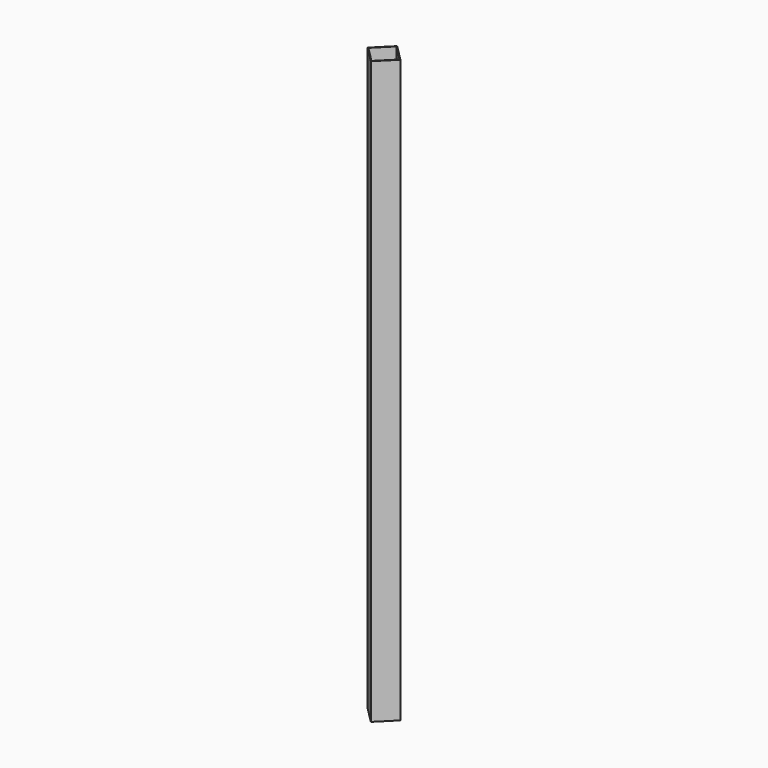
from build123d import *

# Parameters (mm, degrees)
F1_DEPTH = 1250
F2_T     = -1.25
F3_R     = 4
F4_DEPTH = 12.5


with BuildPart() as f1:
    # F0 (on Top) → F1 (new body)
    with BuildSketch(Plane.XY):
        Polygon((35.355339, 0), (0, 35.355339), (-35.355339, 0), (0, -35.355339), align=None)
    extrude(amount=F1_DEPTH)

    # F2
    f2_openings = [f1.faces().sort_by_distance(p)[0] for p in [
        (0, 0, 1250),
    ]]
    offset(amount=F2_T, openings=f2_openings)

    # F3 (on face) → F4 (cut, symmetric)
    with BuildSketch(Plane(origin=(0, 0, 0), x_dir=(1, 0, 0), z_dir=(0, 0, -1))):
        Circle(F3_R)
    extrude(amount=F4_DEPTH, both=True, mode=Mode.SUBTRACT)


solid = f1.part
